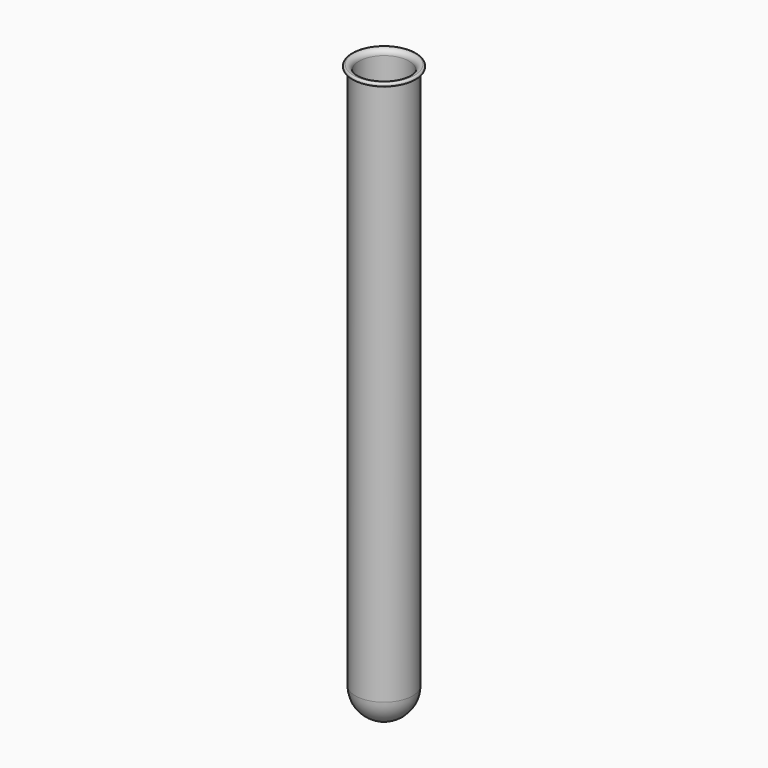
from build123d import *


with BuildPart() as f1:
    # F0 (on Front) → F1 (revolve)
    with BuildSketch(Plane.XZ):
        with BuildLine():
            Line((8, 8), (8, 159.5))
            ThreePointArc((8, 159.5), (8.146447, 159.853553), (8.5, 160))
            ThreePointArc((8.5, 160), (9, 160.5), (8.5, 161))
            ThreePointArc((8.5, 161), (7.43934, 160.56066), (7, 159.5))
            Line((7, 159.5), (7, 8))
            ThreePointArc((7, 8), (4.949747, 3.050253), (0, 1))
            Line((0, 1), (0, 0))
            ThreePointArc((0, 0), (5.656854, 2.343146), (8, 8))
        make_face()
    revolve(axis=Axis((0, 0, 84.285527), (0, 0, 1)))


solid = f1.part
